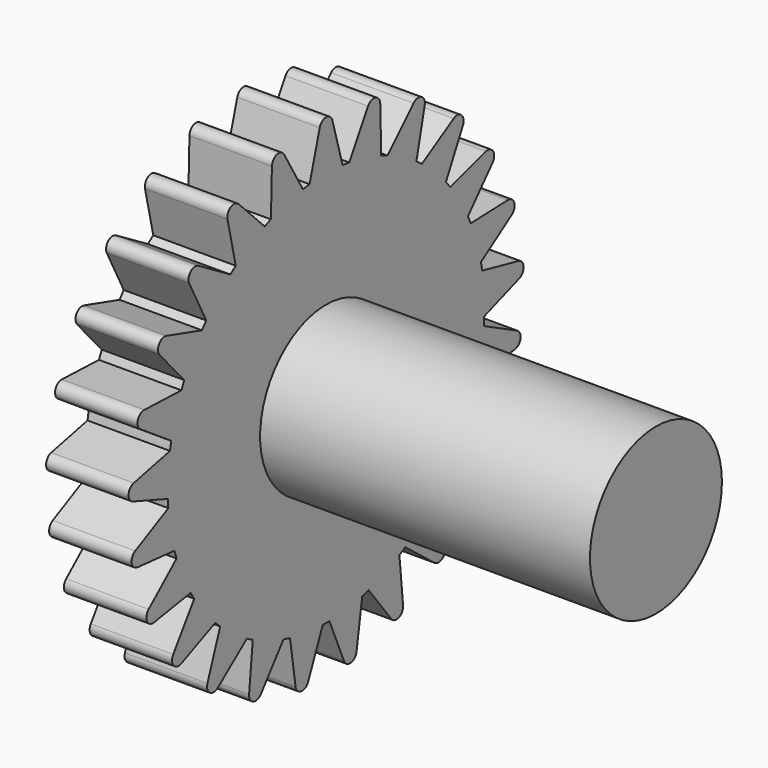
from build123d import *

# Parameters (mm, degrees)
F1_DEPTH = 5
F2_R     = 5
F3_DEPTH = 20


with BuildPart() as f1:
    # F0 (on Right) → F1 (new body)
    with BuildSketch(Plane.YZ):
        with BuildLine():
            Line((1.251901, 11.934519), (0.480814, 14.637179))
            ThreePointArc((0.480814, 14.637179), (0, 15), (-0.480814, 14.637179))
            Line((-0.480814, 14.637179), (-1.251901, 11.934519))
            ThreePointArc((-1.251901, 11.934519), (0, 12), (1.251901, 11.934519))
        make_face()
        with BuildLine():
            ThreePointArc((1.755424, 11.870909), (1.503999, 11.905376), (1.251901, 11.934519))
            ThreePointArc((1.251901, 11.934519), (0, 12), (-1.251901, 11.934519))
            ThreePointArc((-1.251901, 11.934519), (-1.503999, 11.905376), (-1.755424, 11.870909))
            ThreePointArc((-1.755424, 11.870909), (-2.984279, 11.622998), (-4.180564, 11.248239))
            ThreePointArc((-4.180564, 11.248239), (-4.417495, 11.157318), (-4.652449, 11.061407))
            ThreePointArc((-4.652449, 11.061407), (-5.781044, 10.51568), (-6.846547, 9.855191))
            ThreePointArc((-6.846547, 9.855191), (-7.053423, 9.708204), (-7.257144, 9.556875))
            ThreePointArc((-7.257144, 9.556875), (-8.214565, 8.747624), (-9.082337, 7.842905))
            ThreePointArc((-9.082337, 7.842905), (-9.246159, 7.649088), (-9.405846, 7.45185))
            ThreePointArc((-9.405846, 7.45185), (-10.131935, 6.429922), (-10.74745, 5.33782))
            ThreePointArc((-10.74745, 5.33782), (-10.857925, 5.109351), (-10.963544, 4.878598))
            ThreePointArc((-10.963544, 4.878598), (-11.412678, 3.708204), (-11.737261, 2.497341))
            ThreePointArc((-11.737261, 2.497341), (-11.787447, 2.248576), (-11.832361, 1.998805))
            ThreePointArc((-11.832361, 1.998805), (-11.976321, 0.753486), (-11.989576, -0.500056))
            ThreePointArc((-11.989576, -0.500056), (-11.976321, -0.753486), (-11.957709, -1.00658))
            ThreePointArc((-11.957709, -1.00658), (-11.787447, -2.248576), (-11.488543, -3.466032))
            ThreePointArc((-11.488543, -3.466032), (-11.412678, -3.708204), (-11.331709, -3.948717))
            ThreePointArc((-11.331709, -3.948717), (-10.857925, -5.109351), (-10.265642, -6.214225))
            ThreePointArc((-10.265642, -6.214225), (-10.131935, -6.429922), (-9.993697, -6.642743))
            ThreePointArc((-9.993697, -6.642743), (-9.246159, -7.649088), (-8.397713, -8.571955))
            ThreePointArc((-8.397713, -8.571955), (-8.214565, -8.747624), (-8.027743, -8.91938))
            ThreePointArc((-8.027743, -8.91938), (-7.053423, -9.708204), (-6.002125, -10.391077))
            ThreePointArc((-6.002125, -10.391077), (-5.781044, -10.51568), (-5.557377, -10.63558))
            ThreePointArc((-5.557377, -10.63558), (-4.417495, -11.157318), (-3.229402, -11.557291))
            ThreePointArc((-3.229402, -11.557291), (-2.984279, -11.622998), (-2.737821, -11.683507))
            ThreePointArc((-2.737821, -11.683507), (-1.503999, -11.905376), (-0.253763, -11.997317))
            ThreePointArc((-0.253763, -11.997317), (0, -12), (0.253763, -11.997317))
            ThreePointArc((0.253763, -11.997317), (1.503999, -11.905376), (2.737821, -11.683507))
            ThreePointArc((2.737821, -11.683507), (2.984279, -11.622998), (3.229402, -11.557291))
            ThreePointArc((3.229402, -11.557291), (4.417495, -11.157318), (5.557377, -10.63558))
            ThreePointArc((5.557377, -10.63558), (5.781044, -10.51568), (6.002125, -10.391077))
            ThreePointArc((6.002125, -10.391077), (7.053423, -9.708204), (8.027743, -8.91938))
            ThreePointArc((8.027743, -8.91938), (8.214565, -8.747624), (8.397713, -8.571955))
            ThreePointArc((8.397713, -8.571955), (9.246159, -7.649088), (9.993697, -6.642743))
            ThreePointArc((9.993697, -6.642743), (10.131935, -6.429922), (10.265642, -6.214225))
            ThreePointArc((10.265642, -6.214225), (10.857925, -5.109351), (11.331709, -3.948717))
            ThreePointArc((11.331709, -3.948717), (11.412678, -3.708204), (11.488543, -3.466032))
            ThreePointArc((11.488543, -3.466032), (11.787447, -2.248576), (11.957709, -1.00658))
            ThreePointArc((11.957709, -1.00658), (11.976321, -0.753486), (11.989576, -0.500056))
            ThreePointArc((11.989576, -0.500056), (11.997394, -0.250082), (12, 0))
            ThreePointArc((12, 0), (11.958017, 1.002911), (11.832361, 1.998805))
            ThreePointArc((11.832361, 1.998805), (11.787447, 2.248576), (11.737261, 2.497341))
            ThreePointArc((11.737261, 2.497341), (11.412678, 3.708204), (10.963544, 4.878598))
            ThreePointArc((10.963544, 4.878598), (10.857925, 5.109351), (10.74745, 5.33782))
            ThreePointArc((10.74745, 5.33782), (10.131935, 6.429922), (9.405846, 7.45185))
            ThreePointArc((9.405846, 7.45185), (9.246159, 7.649088), (9.082337, 7.842905))
            ThreePointArc((9.082337, 7.842905), (8.214565, 8.747624), (7.257144, 9.556875))
            ThreePointArc((7.257144, 9.556875), (7.053423, 9.708204), (6.846547, 9.855191))
            ThreePointArc((6.846547, 9.855191), (5.781044, 10.51568), (4.652449, 11.061407))
            ThreePointArc((4.652449, 11.061407), (4.417495, 11.157318), (4.180564, 11.248239))
            ThreePointArc((4.180564, 11.248239), (2.984279, 11.622998), (1.755424, 11.870909))
        make_face()
        with BuildLine():
            Line((3.17441, 14.296899), (1.755424, 11.870909))
            ThreePointArc((1.755424, 11.870909), (2.984279, 11.622998), (4.180564, 11.248239))
            Line((4.180564, 11.248239), (4.105827, 14.057752))
            ThreePointArc((4.105827, 14.057752), (3.730348, 14.528747), (3.17441, 14.296899))
        make_face()
        with BuildLine():
            ThreePointArc((-4.180564, 11.248239), (-2.984279, 11.622998), (-1.755424, 11.870909))
            Line((-1.755424, 11.870909), (-3.17441, 14.296899))
            ThreePointArc((-3.17441, 14.296899), (-3.730348, 14.528747), (-4.105827, 14.057752))
            Line((-4.105827, 14.057752), (-4.180564, 11.248239))
        make_face()
        with BuildLine():
            Line((6.630175, 13.058292), (4.652449, 11.061407))
            ThreePointArc((4.652449, 11.061407), (5.781044, 10.51568), (6.846547, 9.855191))
            Line((6.846547, 9.855191), (7.472855, 12.595024))
            ThreePointArc((7.472855, 12.595024), (7.226305, 13.1446), (6.630175, 13.058292))
        make_face()
        with BuildLine():
            ThreePointArc((-6.846547, 9.855191), (-5.781044, 10.51568), (-4.652449, 11.061407))
            Line((-4.652449, 11.061407), (-6.630175, 13.058292))
            ThreePointArc((-6.630175, 13.058292), (-7.226305, 13.1446), (-7.472855, 12.595024))
            Line((-7.472855, 12.595024), (-6.846547, 9.855191))
        make_face()
        with BuildLine():
            Line((9.669341, 10.999184), (7.257144, 9.556875))
            ThreePointArc((7.257144, 9.556875), (8.214565, 8.747624), (9.082337, 7.842905))
            Line((9.082337, 7.842905), (10.370337, 10.340905))
            ThreePointArc((10.370337, 10.340905), (10.268207, 10.934529), (9.669341, 10.999184))
        make_face()
        with BuildLine():
            ThreePointArc((-9.082337, 7.842905), (-8.214565, 8.747624), (-7.257144, 9.556875))
            Line((-7.257144, 9.556875), (-9.669341, 10.999184))
            ThreePointArc((-9.669341, 10.999184), (-10.268207, 10.934529), (-10.370337, 10.340905))
            Line((-10.370337, 10.340905), (-9.082337, 7.842905))
        make_face()
        with BuildLine():
            Line((12.100946, 8.248957), (9.405846, 7.45185))
            ThreePointArc((9.405846, 7.45185), (10.131935, 6.429922), (10.74745, 5.33782))
            Line((10.74745, 5.33782), (12.616212, 7.437028))
            ThreePointArc((12.616212, 7.437028), (12.664919, 8.037402), (12.100946, 8.248957))
        make_face()
        with BuildLine():
            ThreePointArc((-10.74745, 5.33782), (-10.131935, 6.429922), (-9.405846, 7.45185))
            Line((-9.405846, 7.45185), (-12.100946, 8.248957))
            ThreePointArc((-12.100946, 8.248957), (-12.664919, 8.037402), (-12.616212, 7.437028))
            Line((-12.616212, 7.437028), (-10.74745, 5.33782))
        make_face()
        with BuildLine():
            Line((13.772205, 4.980418), (10.963544, 4.878598))
            ThreePointArc((10.963544, 4.878598), (11.412678, 3.708204), (11.737261, 2.497341))
            Line((11.737261, 2.497341), (14.069364, 4.065856))
            ThreePointArc((14.069364, 4.065856), (14.265848, 4.635255), (13.772205, 4.980418))
        make_face()
        with BuildLine():
            ThreePointArc((-11.737261, 2.497341), (-11.412678, 3.708204), (-10.963544, 4.878598))
            Line((-10.963544, 4.878598), (-13.772205, 4.980418))
            ThreePointArc((-13.772205, 4.980418), (-14.265848, 4.635255), (-14.069364, 4.065856))
            Line((-14.069364, 4.065856), (-11.737261, 2.497341))
        make_face()
        with BuildLine():
            Line((14.578106, 1.398941), (11.832361, 1.998805))
            ThreePointArc((11.832361, 1.998805), (11.958017, 1.002911), (12, 0))
            ThreePointArc((12, 0), (11.997394, -0.250082), (11.989576, -0.500056))
            Line((11.989576, -0.500056), (14.638487, 0.439211))
            ThreePointArc((14.638487, 0.439211), (14.970401, 0.941858), (14.578106, 1.398941))
        make_face()
        with BuildLine():
            ThreePointArc((-11.989576, -0.500056), (-11.976321, 0.753486), (-11.832361, 1.998805))
            Line((-11.832361, 1.998805), (-14.578106, 1.398941))
            ThreePointArc((-14.578106, 1.398941), (-14.970401, 0.941858), (-14.638487, 0.439211))
            Line((-14.638487, 0.439211), (-11.989576, -0.500056))
        make_face()
        with BuildLine():
            ThreePointArc((-11.488543, -3.466032), (-11.787447, -2.248576), (-11.957709, -1.00658))
            Line((-11.957709, -1.00658), (-14.46801, -2.270437))
            ThreePointArc((-14.46801, -2.270437), (-14.734309, -2.81072), (-14.287819, -3.215031))
            Line((-14.287819, -3.215031), (-11.488543, -3.466032))
        make_face()
        with BuildLine():
            Line((14.46801, -2.270437), (11.957709, -1.00658))
            ThreePointArc((11.957709, -1.00658), (11.787447, -2.248576), (11.488543, -3.466032))
            Line((11.488543, -3.466032), (14.287819, -3.215031))
            ThreePointArc((14.287819, -3.215031), (14.734309, -2.81072), (14.46801, -2.270437))
        make_face()
        with BuildLine():
            ThreePointArc((-10.265642, -6.214225), (-10.857925, -5.109351), (-11.331709, -3.948717))
            Line((-11.331709, -3.948717), (-13.448836, -5.797155))
            ThreePointArc((-13.448836, -5.797155), (-13.572406, -6.386689), (-13.039395, -6.667261))
            Line((-13.039395, -6.667261), (-10.265642, -6.214225))
        make_face()
        with BuildLine():
            Line((13.448836, -5.797155), (11.331709, -3.948717))
            ThreePointArc((11.331709, -3.948717), (10.857925, -5.109351), (10.265642, -6.214225))
            Line((10.265642, -6.214225), (13.039395, -6.667261))
            ThreePointArc((13.039395, -6.667261), (13.572406, -6.386689), (13.448836, -5.797155))
        make_face()
        with BuildLine():
            ThreePointArc((-8.397713, -8.571955), (-9.246159, -7.649088), (-9.993697, -6.642743))
            Line((-9.993697, -6.642743), (-11.584623, -8.959616))
            ThreePointArc((-11.584623, -8.959616), (-11.557699, -9.56136), (-10.971658, -9.700563))
            Line((-10.971658, -9.700563), (-8.397713, -8.571955))
        make_face()
        with BuildLine():
            Line((11.584623, -8.959616), (9.993697, -6.642743))
            ThreePointArc((9.993697, -6.642743), (9.246159, -7.649088), (8.397713, -8.571955))
            Line((8.397713, -8.571955), (10.971658, -9.700563))
            ThreePointArc((10.971658, -9.700563), (11.557699, -9.56136), (11.584623, -8.959616))
        make_face()
        with BuildLine():
            ThreePointArc((-6.002125, -10.391077), (-7.053423, -9.708204), (-8.027743, -8.91938))
            Line((-8.027743, -8.91938), (-8.992505, -11.559112))
            ThreePointArc((-8.992505, -11.559112), (-8.816779, -12.135255), (-8.214532, -12.124342))
            Line((-8.214532, -12.124342), (-6.002125, -10.391077))
        make_face()
        with BuildLine():
            Line((8.992505, -11.559112), (8.027743, -8.91938))
            ThreePointArc((8.027743, -8.91938), (7.053423, -9.708204), (6.002125, -10.391077))
            Line((6.002125, -10.391077), (8.214532, -12.124342))
            ThreePointArc((8.214532, -12.124342), (8.816779, -12.135255), (8.992505, -11.559112))
        make_face()
        with BuildLine():
            ThreePointArc((-3.229402, -11.557291), (-4.417495, -11.157318), (-5.557377, -10.63558))
            Line((-5.557377, -10.63558), (-5.835354, -13.432306))
            ThreePointArc((-5.835354, -13.432306), (-5.521868, -13.946647), (-4.941256, -13.786305))
            Line((-4.941256, -13.786305), (-3.229402, -11.557291))
        make_face()
        with BuildLine():
            Line((5.835354, -13.432306), (5.557377, -10.63558))
            ThreePointArc((5.557377, -10.63558), (4.417495, -11.157318), (3.229402, -11.557291))
            Line((3.229402, -11.557291), (4.941256, -13.786305))
            ThreePointArc((4.941256, -13.786305), (5.521868, -13.946647), (5.835354, -13.432306))
        make_face()
        with BuildLine():
            ThreePointArc((-0.253763, -11.997317), (-1.503999, -11.905376), (-2.737821, -11.683507))
            Line((-2.737821, -11.683507), (-2.311547, -14.461499))
            ThreePointArc((-2.311547, -14.461499), (-1.879999, -14.881721), (-1.357503, -14.582023))
            Line((-1.357503, -14.582023), (-0.253763, -11.997317))
        make_face()
        with BuildLine():
            Line((2.311547, -14.461499), (2.737821, -11.683507))
            ThreePointArc((2.737821, -11.683507), (1.503999, -11.905376), (0.253763, -11.997317))
            Line((0.253763, -11.997317), (1.357503, -14.582023))
            ThreePointArc((1.357503, -14.582023), (1.879999, -14.881721), (2.311547, -14.461499))
        make_face()
    extrude(amount=F1_DEPTH)

    # F2 (on face) → F3 (join)
    with BuildSketch(Plane.YZ.offset(5)):
        Circle(F2_R)
    extrude(amount=F3_DEPTH)


solid = f1.part
